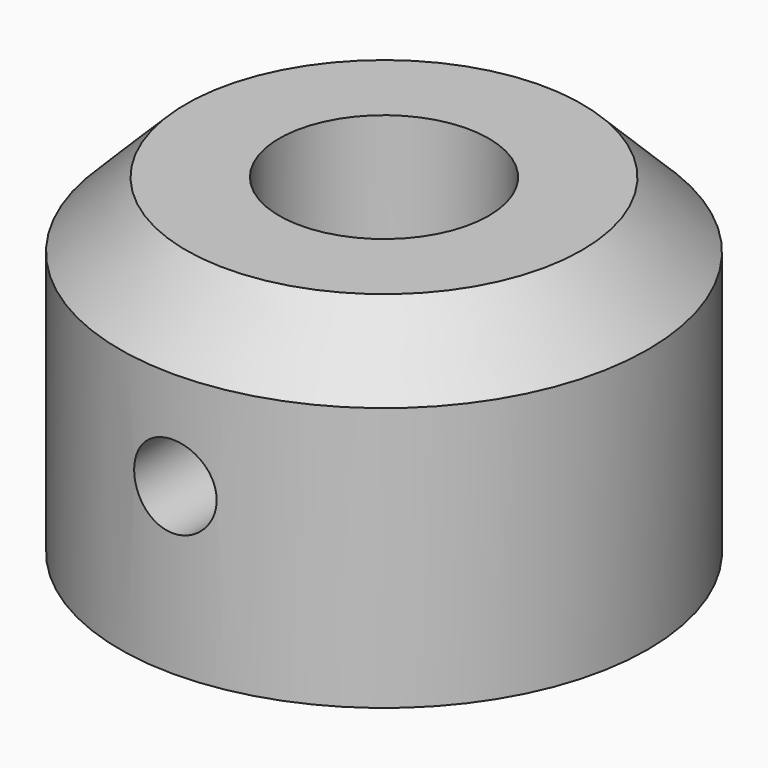
from build123d import *

# Parameters (mm, degrees)
F2_R     = 1.25
F3_DEPTH = 25


with BuildPart() as f1:
    # F0 (on Front) → F1 (revolve)
    with BuildSketch(Plane.XZ):
        Polygon((3.175, 10), (3.175, 0), (8, 0), (8, 3.585786), (8, 8), (6, 10), (5.175, 10), align=None)
    revolve(axis=Axis((0, 0, 7.164844), (0, 0, 1)))

    # F2 (on Front) → F3 (cut)
    with BuildSketch(Plane.XZ):
        with Locations((0, 5)):
            Circle(F2_R)
    extrude(amount=F3_DEPTH, mode=Mode.SUBTRACT)


solid = f1.part
